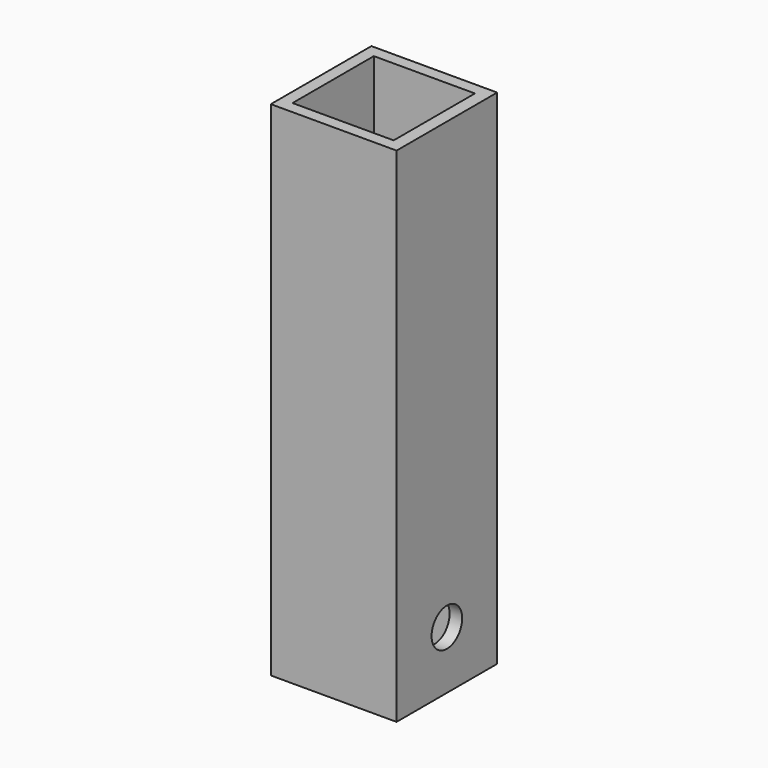
from build123d import *

# Parameters (mm, degrees)
F0_W     = 31.75
F0_H     = 31.75
F0_W_2   = 25.527
F0_H_2   = 25.654
F1_DEPTH = 127
F2_R     = 4.826
F3_DEPTH = 31.751


with BuildPart() as f1:
    # F0 (on Top) → F1 (new body)
    with BuildSketch(Plane.XY):
        with Locations((18.57632, 15.875)):
            Rectangle(F0_W, F0_H)
        with Locations((18.51282, 15.875)):
            Rectangle(F0_W_2, F0_H_2, mode=Mode.SUBTRACT)
    extrude(amount=F1_DEPTH)

    # F2 (on face) → F3 (cut, through all)
    with BuildSketch(Plane.YZ.offset(34.45132)):
        with Locations((15.875, 14.605)):
            Circle(F2_R)
    extrude(amount=-F3_DEPTH, mode=Mode.SUBTRACT)


solid = f1.part
